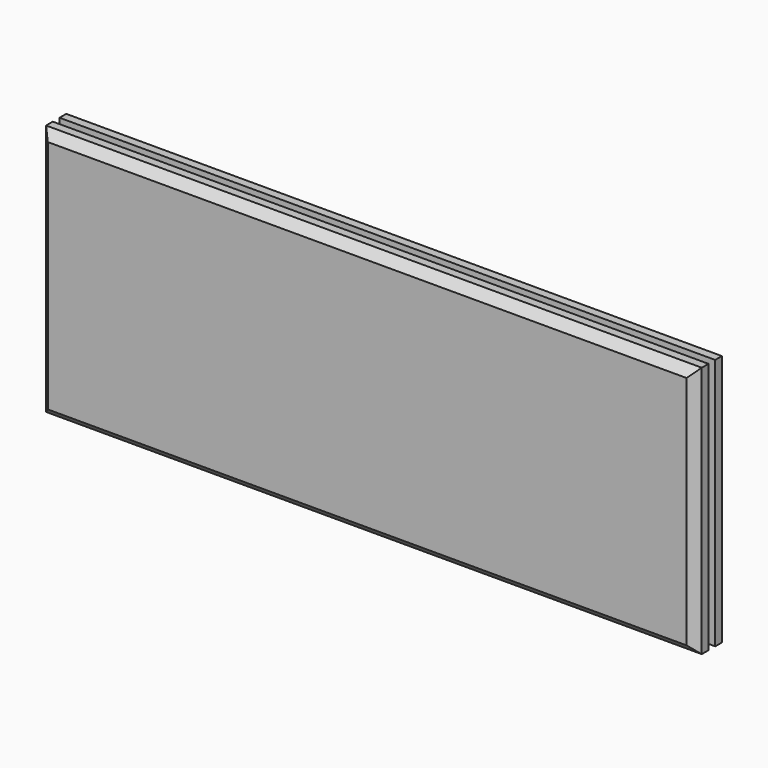
from build123d import *

# Parameters (mm, degrees)
F0_W     = 247.65
F0_H     = 95.25
F1_DEPTH = 6.35
F2_SIZE  = 3.175
F3_W     = 241.3
F3_H     = 88.9
F4_DEPTH = 3.175
F5_W     = 247.65
F5_H     = 95.25
F6_DEPTH = 3.175
F8_DEPTH = 3.175


with BuildPart() as f1:
    # F0 (on Front) → F1 (new body)
    with BuildSketch(Plane.XZ):
        with Locations((92.016742897, 47.625)):
            Rectangle(F0_W, F0_H)
    extrude(amount=F1_DEPTH)

    # F2
    f2_edges = [f1.edges().sort_by_distance(p)[0] for p in [
        (92.016743, -6.35, 95.25),
        (-31.808257, -6.35, 47.625),
        (92.016743, -6.35, 0),
        (215.841743, -6.35, 47.625),
    ]]
    chamfer(f2_edges, length=F2_SIZE)

    # F3 (on face) → F4 (join)
    with BuildSketch(Plane(origin=(0, 0, 0), x_dir=(-1, 0, 0), z_dir=(0, 1, 0))):
        with Locations((-92.016742897, 47.625)):
            Rectangle(F3_W, F3_H)
    extrude(amount=F4_DEPTH)

    # F5 (on face) → F6 (join)
    with BuildSketch(Plane(origin=(0, 3.175, 0), x_dir=(-1, 0, 0), z_dir=(0, 1, 0))):
        with Locations((-92.016742897, 47.625)):
            Rectangle(F5_W, F5_H)
    extrude(amount=F6_DEPTH)

    # F7 (on face) → F8 (cut)
    with BuildSketch(Plane(origin=(0, 6.35, 0), x_dir=(-1, 0, 0), z_dir=(0, 1, 0))):
        Polygon((-203.1155885079, 63.506246084), (-203.115601368, 63.5), (-203.141742897, 50.8031365043), (-203.141742897, 38.1062460972), (-200.2356058372, 38.1002626615), (-200.0943615794, 50.7999993861), (31.808257103, 50.5612678826), (31.808257103, 63.0225621771), align=None)
        Polygon((-203.141742897, 50.8031365043), (-203.115601368, 63.5), (-203.141742897, 63.5), align=None)
        Polygon((-203.1155885079, 63.506246084), (-203.115601368, 63.5), (-203.141742897, 50.8031365043), (-203.141742897, 38.1062460972), (-200.2356058372, 38.1002626615), (-200.0943615794, 50.7999993861), (31.808257103, 50.5612678826), (31.808257103, 63.0225621771), align=None)
    extrude(amount=-F8_DEPTH, mode=Mode.SUBTRACT)


solid = f1.part
